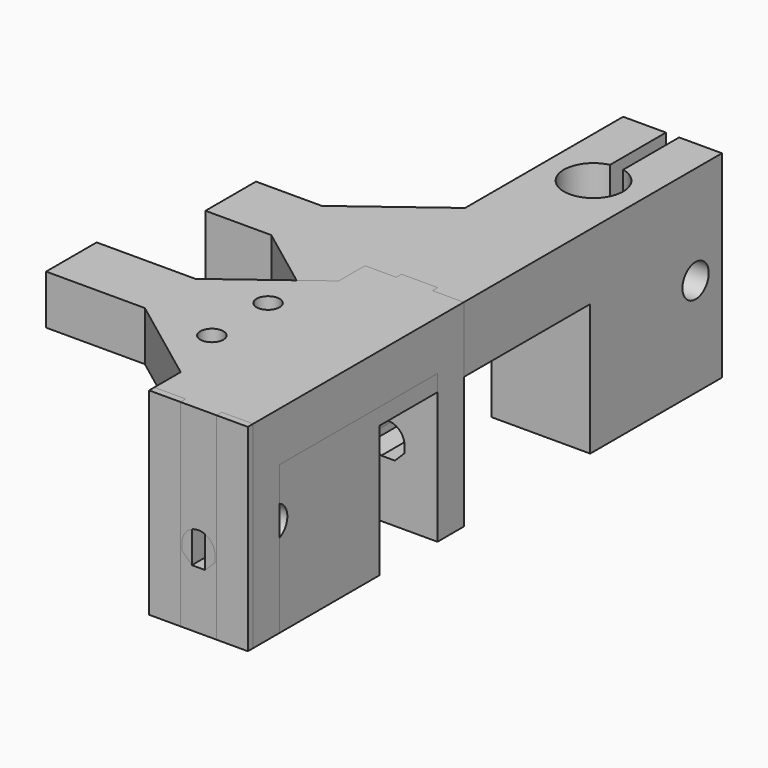
from build123d import *

# Parameters (mm, degrees)
SKETCH_R        = 4.5
PAD_DEPTH       = 30
SKETCH001_W     = 2
SKETCH001_H     = 15
POCKET_DEPTH    = 30
SKETCH002_R     = 2.5
SKETCH002_W     = 40
SKETCH002_H     = 20
POCKET001_DEPTH = 35
CHAMFER_SIZE    = 8
SKETCH003_W     = 9.6
SKETCH003_H     = 10
PAD001_DEPTH    = 10
PAD002_DEPTH    = 30
SKETCH005_W     = 4.75
SKETCH005_H     = 1
POCKET002_DEPTH = 30.001
SKETCH006_W     = 30
SKETCH006_H     = 22.5
POCKET003_DEPTH = 35.001
POCKET004_DEPTH = 42.001
POCKET005_DEPTH = 3
SKETCH009_R     = 1.75
POCKET006_DEPTH = 30.001
CHAMFER001_SIZE = 8
SKETCH010_W     = 9.6
SKETCH010_H     = 7.5
PAD003_DEPTH    = 15
SKETCH011_R     = 3.5
POCKET007_DEPTH = 0.5


with BuildPart() as obj1_alt:
    # Sketch → Pad (new body)
    with BuildSketch(Plane.XY):
        Polygon((0, 0), (15, 0), (15, 90), (0, 90), (0, 60), (-20, 45), (0, 30), align=None)
        with Locations((7.5, 15)):
            Circle(SKETCH_R, mode=Mode.SUBTRACT)
        with Locations((7.5, 75)):
            Circle(SKETCH_R, mode=Mode.SUBTRACT)
    extrude(amount=PAD_DEPTH)

    # Sketch001 → Pocket (cut)
    with BuildSketch(Plane.XY.offset(30)):
        with Locations((7.5, 82.5)):
            Rectangle(SKETCH001_W, SKETCH001_H)
        with Locations((7.5, 7.5)):
            Rectangle(SKETCH001_W, SKETCH001_H)
    extrude(amount=-POCKET_DEPTH, mode=Mode.SUBTRACT)

    # Sketch002 → Pocket001 (cut)
    with BuildSketch(Plane.YZ.offset(15)):
        with Locations((5, 15)):
            Circle(SKETCH002_R)
        with Locations((85, 15)):
            Circle(SKETCH002_R)
        with Locations((45, 10)):
            Rectangle(SKETCH002_W, SKETCH002_H)
    extrude(amount=-POCKET001_DEPTH, mode=Mode.SUBTRACT)

    # Chamfer
    chamfer_edges = [obj1_alt.edges().sort_by_distance(p)[0] for p in [
        (-20, 45, 25),
    ]]
    chamfer(chamfer_edges, length=CHAMFER_SIZE)

    # Sketch003 → Pad001 (new body)
    with BuildSketch(Plane(origin=(-13.6, 0, 0), x_dir=(0, -1, 0), z_dir=(-1, 0, 0))):
        with Locations((-45, 25)):
            Rectangle(SKETCH003_W, SKETCH003_H)
    extrude(amount=PAD001_DEPTH)


with BuildPart() as obj1:
    # Sketch004 → Pad002 (new body)
    with BuildSketch(Plane.XY):
        Polygon((0, 0), (15, 0), (15, 42), (0, 42), (0, 36), (-20, 21), (0, 6), align=None)
    extrude(amount=PAD002_DEPTH)

    # Sketch005 → Pocket002 (cut, through all)
    with BuildSketch(Plane.XY.offset(30)):
        with Locations((2.375, 41.5)):
            Rectangle(SKETCH005_W, SKETCH005_H)
        with Locations((12.625, 41.5)):
            Rectangle(SKETCH005_W, SKETCH005_H)
        with Locations((2.375, 0.5)):
            Rectangle(SKETCH005_W, SKETCH005_H)
        with Locations((12.625, 0.5)):
            Rectangle(SKETCH005_W, SKETCH005_H)
    extrude(amount=-POCKET002_DEPTH, mode=Mode.SUBTRACT)

    # Sketch006 → Pocket003 (cut, through all)
    with BuildSketch(Plane.YZ.offset(15)):
        with Locations((21, 11.25)):
            Rectangle(SKETCH006_W, SKETCH006_H)
    extrude(amount=-POCKET003_DEPTH, mode=Mode.SUBTRACT)

    # Sketch007 → Pocket004 (cut, through all)
    with BuildSketch(Plane.XZ):
        with BuildLine():
            ThreePointArc((10, 11.25), (7.5, 13.75), (5, 11.25))
            Line((5, 10.214466), (5, 11.25))
            Line((5, 10.214466), (6.464466, 8.75))
            Line((6.464466, 8.75), (7.5, 8.75))
            Line((7.5, 8.75), (8.535534, 8.75))
            Line((10, 10.214466), (8.535534, 8.75))
            Line((10, 11.25), (10, 10.214466))
        make_face()
    extrude(amount=-POCKET004_DEPTH, mode=Mode.SUBTRACT)

    # Sketch008 → Pocket005 (cut)
    with BuildSketch(Plane(origin=(0, 0, 22.5), x_dir=(1, 0, 0), z_dir=(0, 0, -1))):
        Polygon((-3, -12.416667), (-5.814583, -14.041667), (-5.814583, -17.291667), (-3, -18.916667), (-0.185417, -17.291667), (-0.185417, -14.041667), align=None)
        Polygon((-3, -23.083333), (-5.814583, -24.708333), (-5.814583, -27.958333), (-3, -29.583333), (-0.185417, -27.958333), (-0.185417, -24.708333), align=None)
    extrude(amount=-POCKET005_DEPTH, mode=Mode.SUBTRACT)

    # Sketch009 → Pocket006 (cut, through all)
    with BuildSketch(Plane.XY.offset(30)):
        with Locations((-3, 26.333333)):
            Circle(SKETCH009_R)
        with Locations((-3, 15.666667)):
            Circle(SKETCH009_R)
    extrude(amount=-POCKET006_DEPTH, mode=Mode.SUBTRACT)

    # Chamfer001
    chamfer001_edges = [obj1.edges().sort_by_distance(p)[0] for p in [
        (-20, 21, 26.25),
    ]]
    chamfer(chamfer001_edges, length=CHAMFER001_SIZE)

    # Sketch010 → Pad003 (new body)
    with BuildSketch(Plane(origin=(-13.6, 0, 0), x_dir=(0, -1, 0), z_dir=(-1, 0, 0))):
        with Locations((-21, 26.25)):
            Rectangle(SKETCH010_W, SKETCH010_H)
    extrude(amount=PAD003_DEPTH)

    # Sketch011 → Pocket007 (cut)
    with BuildSketch(Plane(origin=(0, 0, 22.5), x_dir=(1, 0, 0), z_dir=(0, 0, -1))):
        with Locations((-23.8, -21)):
            Circle(SKETCH011_R)
    extrude(amount=-POCKET007_DEPTH, mode=Mode.SUBTRACT)


solid = Compound([obj1_alt.part, obj1.part])
